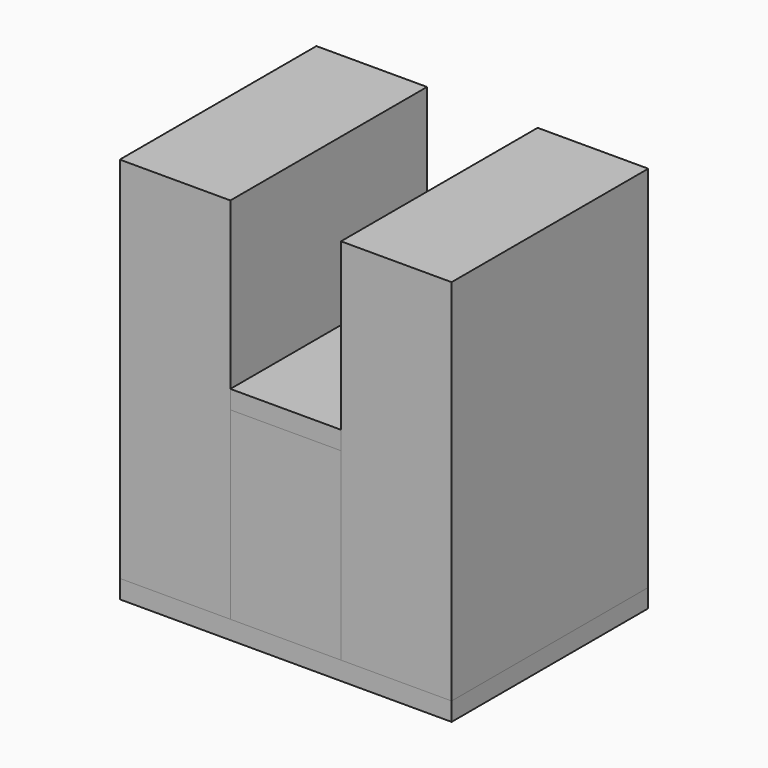
from build123d import *

# Parameters (mm, degrees)
F0_W     = 18
F0_H     = 40
F1_DEPTH = 60
F2_DEPTH = 30
F3_D     = 8
F4_DEPTH = 3
F5_D     = 8
F6_W     = 18
F6_H     = 40
F6_R     = 4
F7_DEPTH = 3


with BuildPart() as f1:
    # F0 (on Top) → F1 (new body)
    with BuildSketch(Plane.XY):
        with Locations((-18, 0)):
            Rectangle(F0_W, F0_H)
    extrude(amount=F1_DEPTH)


with BuildPart() as f1b:
    # F0 (on Top) → F1, piece 2 (new body)
    with BuildSketch(Plane.XY):
        with Locations((18, 0)):
            Rectangle(F0_W, F0_H)
    extrude(amount=F1_DEPTH)


with BuildPart() as f2:
    # F0 (on Top) → F2 (new body)
    with BuildSketch(Plane.XY):
        Rectangle(F0_W, F0_H)
    extrude(amount=F2_DEPTH)

    # F3 (through all)
    with Locations(Plane(origin=(0, 0, 0), x_dir=(1, 0, 0), z_dir=(0, 0, -1))):
        with Locations((0, 0)):
            Hole(F3_D / 2)


with BuildPart() as f4:
    # F0 (on Top) → F4 (new body)
    with BuildSketch(Plane.XY):
        with Locations((-18, 0)):
            Rectangle(F0_W, F0_H)
        Rectangle(F0_W, F0_H)
        with Locations((18, 0)):
            Rectangle(F0_W, F0_H)
    extrude(amount=-F4_DEPTH)

    # F5 (through all)
    with Locations(Plane.XY):
        with Locations((0, 0)):
            Hole(F5_D / 2)


with BuildPart() as f7:
    # F6 (on face) → F7 (new body)
    with BuildSketch(Plane.XY.offset(30)):
        Rectangle(F6_W, F6_H)
        Circle(F6_R, mode=Mode.SUBTRACT)
    extrude(amount=F7_DEPTH)


solid = Compound([f1.part, f1b.part, f2.part, f4.part, f7.part])
